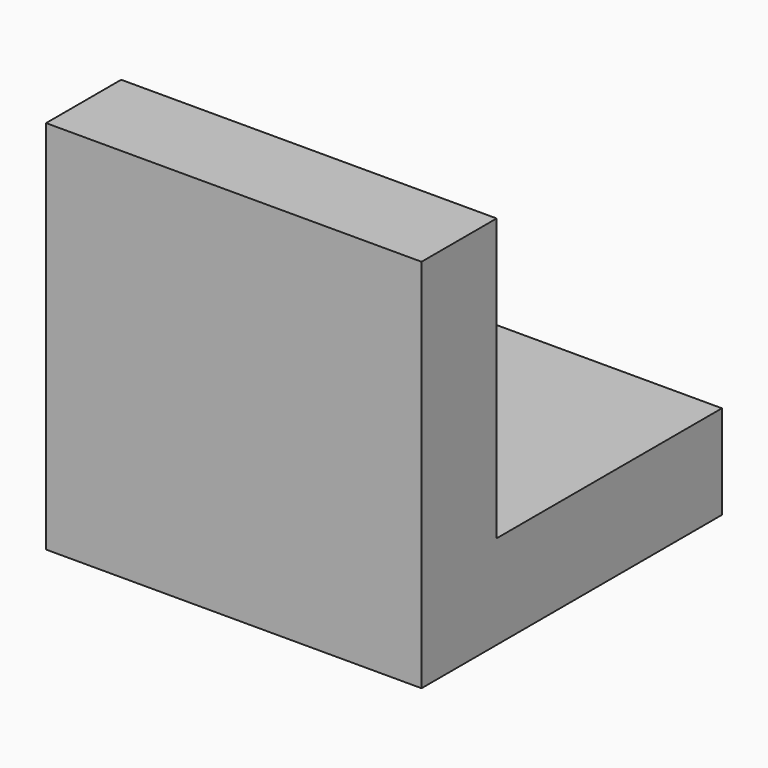
from build123d import *

# Parameters (mm, degrees)
F0_W     = 50.8
F0_H     = 38.1
F0_R     = 6.35
F1_DEPTH = 12.7
F0_H_2   = 12.7
F2_DEPTH = 50.8


with BuildPart() as f1:
    # F0 (on Top) → F1 (new body)
    with BuildSketch(Plane.XY):
        with Locations((3.699092, 14.519153)):
            Rectangle(F0_W, F0_H)
        with Locations((3.699092, 14.519153)):
            Circle(F0_R, mode=Mode.SUBTRACT)
    extrude(amount=F1_DEPTH)

    # F0 (on Top) → F2 (join)
    with BuildSketch(Plane.XY):
        with Locations((3.699092, -10.880847)):
            Rectangle(F0_W, F0_H_2)
    extrude(amount=F2_DEPTH)


solid = f1.part
